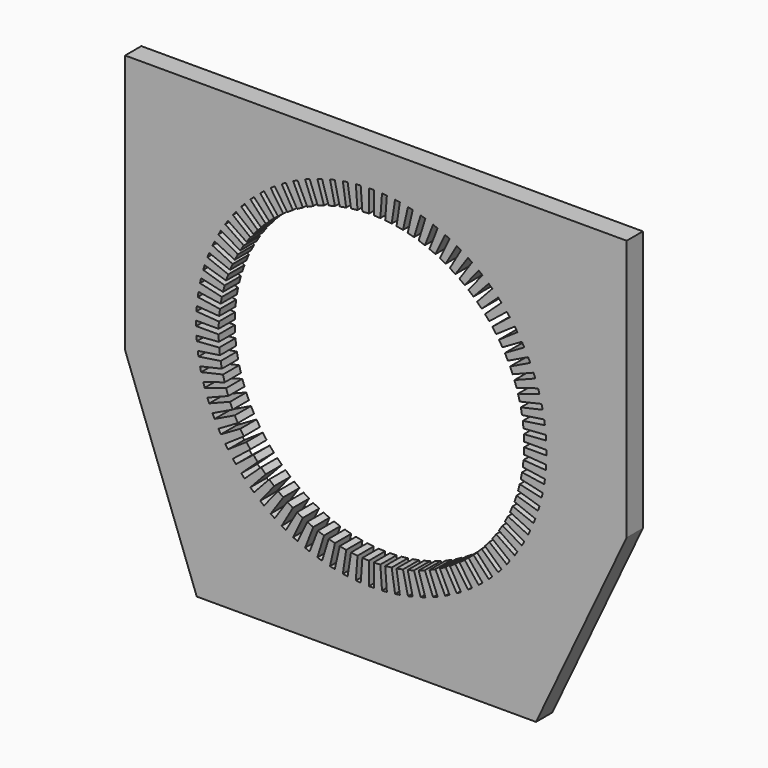
from build123d import *

# Parameters (mm, degrees)
F1_DEPTH = 25


with BuildPart() as f1:
    # F0 (on Front) → F1 (new body)
    with BuildSketch(Plane.XZ):
        with BuildLine():
            ThreePointArc((188.017382, -3), (188.035331, -1.500048), (188.041315, 0))
            ThreePointArc((188.041315, 0), (188.035331, 1.500048), (188.017382, 3))
            ThreePointArc((188.017382, 3), (187.909818, 7.031089), (187.715838, 11.058945))
            ThreePointArc((187.715838, 11.058945), (187.515513, 14.052345), (187.267457, 17.042168))
            ThreePointArc((187.267457, 17.042168), (186.85895, 21.053947), (186.36451, 25.056044))
            ThreePointArc((186.36451, 25.056044), (185.941048, 28.026104), (185.470257, 30.989029))
            ThreePointArc((185.470257, 30.989029), (184.763091, 34.959063), (183.970957, 38.91302))
            ThreePointArc((183.970957, 38.91302), (183.326726, 41.843129), (182.635831, 44.762587))
            ThreePointArc((182.635831, 44.762587), (181.633962, 48.668673), (180.548563, 52.552378))
            ThreePointArc((180.548563, 52.552378), (179.687167, 55.42615), (178.780032, 58.285815))
            ThreePointArc((178.780032, 58.285815), (177.489062, 62.106109), (176.116468, 65.897842))
            ThreePointArc((176.116468, 65.897842), (175.042723, 68.699206), (173.924422, 71.483084))
            ThreePointArc((173.924422, 71.483084), (172.351571, 75.196222), (170.699459, 78.874778))
            ThreePointArc((170.699459, 78.874778), (169.41937, 81.588069), (168.096157, 84.280591))
            ThreePointArc((168.096157, 84.280591), (166.250221, 87.865807), (164.327829, 91.410615))
            ThreePointArc((164.327829, 91.410615), (162.848555, 94.020657), (161.327829, 96.606767))
            ThreePointArc((161.327829, 96.606767), (159.219131, 100.044011), (157.037212, 103.435246))
            ThreePointArc((157.037212, 103.435246), (155.367025, 105.927444), (153.657291, 108.392679))
            ThreePointArc((153.657291, 108.392679), (151.297624, 111.662728), (148.868378, 114.881426))
            ThreePointArc((148.868378, 114.881426), (147.01662, 117.241842), (145.127439, 119.572415))
            ThreePointArc((145.127439, 119.572415), (142.529999, 122.656982), (139.867012, 125.685142))
            ThreePointArc((139.867012, 125.685142), (137.844038, 127.900576), (135.785976, 130.083453))
            ThreePointArc((135.785976, 130.083453), (132.965289, 132.965289), (130.083453, 135.785976))
            ThreePointArc((130.083453, 135.785976), (127.900576, 137.844038), (125.685142, 139.867012))
            ThreePointArc((125.685142, 139.867012), (122.656982, 142.529999), (119.572415, 145.127439))
            ThreePointArc((119.572415, 145.127439), (117.241842, 147.01662), (114.881426, 148.868378))
            ThreePointArc((114.881426, 148.868378), (111.662728, 151.297624), (108.392679, 153.657291))
            ThreePointArc((108.392679, 153.657291), (105.927444, 155.367025), (103.435246, 157.037212))
            ThreePointArc((103.435246, 157.037212), (100.044011, 159.219131), (96.606767, 161.327829))
            ThreePointArc((96.606767, 161.327829), (94.020657, 162.848555), (91.410615, 164.327829))
            ThreePointArc((91.410615, 164.327829), (87.865807, 166.250221), (84.280591, 168.096157))
            ThreePointArc((84.280591, 168.096157), (81.588069, 169.41937), (78.874778, 170.699459))
            ThreePointArc((78.874778, 170.699459), (75.196222, 172.351571), (71.483084, 173.924422))
            ThreePointArc((71.483084, 173.924422), (68.699206, 175.042723), (65.897842, 176.116468))
            ThreePointArc((65.897842, 176.116468), (62.106109, 177.489062), (58.285815, 178.780032))
            ThreePointArc((58.285815, 178.780032), (55.42615, 179.687167), (52.552378, 180.548563))
            ThreePointArc((52.552378, 180.548563), (48.668673, 181.633962), (44.762587, 182.635831))
            ThreePointArc((44.762587, 182.635831), (41.843129, 183.326726), (38.91302, 183.970957))
            ThreePointArc((38.91302, 183.970957), (34.959063, 184.763091), (30.989029, 185.470257))
            ThreePointArc((30.989029, 185.470257), (28.026104, 185.941048), (25.056044, 186.36451))
            ThreePointArc((25.056044, 186.36451), (21.053947, 186.85895), (17.042168, 187.267457))
            ThreePointArc((17.042168, 187.267457), (14.052345, 187.515513), (11.058945, 187.715838))
            ThreePointArc((11.058945, 187.715838), (7.031089, 187.909818), (3, 188.017382))
            ThreePointArc((3, 188.017382), (0, 188.041315), (-3, 188.017382))
            ThreePointArc((-3, 188.017382), (-7.031089, 187.909818), (-11.058945, 187.715838))
            ThreePointArc((-11.058945, 187.715838), (-14.052345, 187.515513), (-17.042168, 187.267457))
            ThreePointArc((-17.042168, 187.267457), (-21.053947, 186.85895), (-25.056044, 186.36451))
            ThreePointArc((-25.056044, 186.36451), (-28.026104, 185.941048), (-30.989029, 185.470257))
            ThreePointArc((-30.989029, 185.470257), (-34.959063, 184.763091), (-38.91302, 183.970957))
            ThreePointArc((-38.91302, 183.970957), (-41.843129, 183.326726), (-44.762587, 182.635831))
            ThreePointArc((-44.762587, 182.635831), (-48.668673, 181.633962), (-52.552378, 180.548563))
            ThreePointArc((-52.552378, 180.548563), (-55.42615, 179.687167), (-58.285815, 178.780032))
            ThreePointArc((-58.285815, 178.780032), (-62.106109, 177.489062), (-65.897842, 176.116468))
            ThreePointArc((-65.897842, 176.116468), (-68.699206, 175.042723), (-71.483084, 173.924422))
            ThreePointArc((-71.483084, 173.924422), (-75.196222, 172.351571), (-78.874778, 170.699459))
            ThreePointArc((-78.874778, 170.699459), (-81.588069, 169.41937), (-84.280591, 168.096157))
            ThreePointArc((-84.280591, 168.096157), (-87.865807, 166.250221), (-91.410615, 164.327829))
            ThreePointArc((-91.410615, 164.327829), (-94.020657, 162.848555), (-96.606767, 161.327829))
            ThreePointArc((-96.606767, 161.327829), (-100.044011, 159.219131), (-103.435246, 157.037212))
            ThreePointArc((-103.435246, 157.037212), (-105.927444, 155.367025), (-108.392679, 153.657291))
            ThreePointArc((-108.392679, 153.657291), (-111.662728, 151.297624), (-114.881426, 148.868378))
            ThreePointArc((-114.881426, 148.868378), (-117.241842, 147.01662), (-119.572415, 145.127439))
            ThreePointArc((-119.572415, 145.127439), (-122.656982, 142.529999), (-125.685142, 139.867012))
            ThreePointArc((-125.685142, 139.867012), (-127.900576, 137.844038), (-130.083453, 135.785976))
            ThreePointArc((-130.083453, 135.785976), (-132.965289, 132.965289), (-135.785976, 130.083453))
            ThreePointArc((-135.785976, 130.083453), (-137.844038, 127.900576), (-139.867012, 125.685142))
            ThreePointArc((-139.867012, 125.685142), (-142.529999, 122.656982), (-145.127439, 119.572415))
            ThreePointArc((-145.127439, 119.572415), (-147.01662, 117.241842), (-148.868378, 114.881426))
            ThreePointArc((-148.868378, 114.881426), (-151.297624, 111.662728), (-153.657291, 108.392679))
            ThreePointArc((-153.657291, 108.392679), (-155.367025, 105.927444), (-157.037212, 103.435246))
            ThreePointArc((-157.037212, 103.435246), (-159.219131, 100.044011), (-161.327829, 96.606767))
            ThreePointArc((-161.327829, 96.606767), (-162.848555, 94.020657), (-164.327829, 91.410615))
            ThreePointArc((-164.327829, 91.410615), (-166.250221, 87.865807), (-168.096157, 84.280591))
            ThreePointArc((-168.096157, 84.280591), (-169.41937, 81.588069), (-170.699459, 78.874778))
            ThreePointArc((-170.699459, 78.874778), (-172.351571, 75.196222), (-173.924422, 71.483084))
            ThreePointArc((-173.924422, 71.483084), (-175.042723, 68.699206), (-176.116468, 65.897842))
            ThreePointArc((-176.116468, 65.897842), (-177.489062, 62.106109), (-178.780032, 58.285815))
            ThreePointArc((-178.780032, 58.285815), (-179.687167, 55.42615), (-180.548563, 52.552378))
            ThreePointArc((-180.548563, 52.552378), (-181.633962, 48.668673), (-182.635831, 44.762587))
            ThreePointArc((-182.635831, 44.762587), (-183.326726, 41.843129), (-183.970957, 38.91302))
            ThreePointArc((-183.970957, 38.91302), (-184.763091, 34.959063), (-185.470257, 30.989029))
            ThreePointArc((-185.470257, 30.989029), (-185.941048, 28.026104), (-186.36451, 25.056044))
            ThreePointArc((-186.36451, 25.056044), (-186.85895, 21.053947), (-187.267457, 17.042168))
            ThreePointArc((-187.267457, 17.042168), (-187.515513, 14.052345), (-187.715838, 11.058945))
            ThreePointArc((-187.715838, 11.058945), (-187.909818, 7.031089), (-188.017382, 3))
            ThreePointArc((-188.017382, 3), (-188.041315, 0), (-188.017382, -3))
            ThreePointArc((-188.017382, -3), (-187.909818, -7.031089), (-187.715838, -11.058945))
            ThreePointArc((-187.715838, -11.058945), (-187.515513, -14.052345), (-187.267457, -17.042168))
            ThreePointArc((-187.267457, -17.042168), (-186.85895, -21.053947), (-186.36451, -25.056044))
            ThreePointArc((-186.36451, -25.056044), (-185.941048, -28.026104), (-185.470257, -30.989029))
            ThreePointArc((-185.470257, -30.989029), (-184.763091, -34.959063), (-183.970957, -38.91302))
            ThreePointArc((-183.970957, -38.91302), (-183.326726, -41.843129), (-182.635831, -44.762587))
            ThreePointArc((-182.635831, -44.762587), (-181.633962, -48.668673), (-180.548563, -52.552378))
            ThreePointArc((-180.548563, -52.552378), (-179.687167, -55.42615), (-178.780032, -58.285815))
            ThreePointArc((-178.780032, -58.285815), (-177.489062, -62.106109), (-176.116468, -65.897842))
            ThreePointArc((-176.116468, -65.897842), (-175.042723, -68.699206), (-173.924422, -71.483084))
            ThreePointArc((-173.924422, -71.483084), (-172.351571, -75.196222), (-170.699459, -78.874778))
            ThreePointArc((-170.699459, -78.874778), (-169.41937, -81.588069), (-168.096157, -84.280591))
            ThreePointArc((-168.096157, -84.280591), (-166.250221, -87.865807), (-164.327829, -91.410615))
            ThreePointArc((-164.327829, -91.410615), (-162.848555, -94.020657), (-161.327829, -96.606767))
            ThreePointArc((-161.327829, -96.606767), (-159.219131, -100.044011), (-157.037212, -103.435246))
            ThreePointArc((-157.037212, -103.435246), (-155.367025, -105.927444), (-153.657291, -108.392679))
            ThreePointArc((-153.657291, -108.392679), (-151.297624, -111.662728), (-148.868378, -114.881426))
            ThreePointArc((-148.868378, -114.881426), (-147.01662, -117.241842), (-145.127439, -119.572415))
            ThreePointArc((-145.127439, -119.572415), (-142.529999, -122.656982), (-139.867012, -125.685142))
            ThreePointArc((-139.867012, -125.685142), (-137.844038, -127.900576), (-135.785976, -130.083453))
            ThreePointArc((-135.785976, -130.083453), (-132.965289, -132.965289), (-130.083453, -135.785976))
            ThreePointArc((-130.083453, -135.785976), (-127.900576, -137.844038), (-125.685142, -139.867012))
            ThreePointArc((-125.685142, -139.867012), (-122.656982, -142.529999), (-119.572415, -145.127439))
            ThreePointArc((-119.572415, -145.127439), (-117.241842, -147.01662), (-114.881426, -148.868378))
            ThreePointArc((-114.881426, -148.868378), (-111.662728, -151.297624), (-108.392679, -153.657291))
            ThreePointArc((-108.392679, -153.657291), (-105.927444, -155.367025), (-103.435246, -157.037212))
            ThreePointArc((-103.435246, -157.037212), (-100.044011, -159.219131), (-96.606767, -161.327829))
            ThreePointArc((-96.606767, -161.327829), (-94.020657, -162.848555), (-91.410615, -164.327829))
            ThreePointArc((-91.410615, -164.327829), (-87.865807, -166.250221), (-84.280591, -168.096157))
            ThreePointArc((-84.280591, -168.096157), (-81.588069, -169.41937), (-78.874778, -170.699459))
            ThreePointArc((-78.874778, -170.699459), (-75.196222, -172.351571), (-71.483084, -173.924422))
            ThreePointArc((-71.483084, -173.924422), (-68.699206, -175.042723), (-65.897842, -176.116468))
            ThreePointArc((-65.897842, -176.116468), (-62.106109, -177.489062), (-58.285815, -178.780032))
            ThreePointArc((-58.285815, -178.780032), (-55.42615, -179.687167), (-52.552378, -180.548563))
            ThreePointArc((-52.552378, -180.548563), (-48.668673, -181.633962), (-44.762587, -182.635831))
            ThreePointArc((-44.762587, -182.635831), (-41.843129, -183.326726), (-38.91302, -183.970957))
            ThreePointArc((-38.91302, -183.970957), (-34.959063, -184.763091), (-30.989029, -185.470257))
            ThreePointArc((-30.989029, -185.470257), (-28.026104, -185.941048), (-25.056044, -186.36451))
            ThreePointArc((-25.056044, -186.36451), (-21.053947, -186.85895), (-17.042168, -187.267457))
            ThreePointArc((-17.042168, -187.267457), (-14.052345, -187.515513), (-11.058945, -187.715838))
            ThreePointArc((-11.058945, -187.715838), (-7.031089, -187.909818), (-3, -188.017382))
            ThreePointArc((-3, -188.017382), (0, -188.041315), (3, -188.017382))
            ThreePointArc((3, -188.017382), (7.031089, -187.909818), (11.058945, -187.715838))
            ThreePointArc((11.058945, -187.715838), (14.052345, -187.515513), (17.042168, -187.267457))
            ThreePointArc((17.042168, -187.267457), (21.053947, -186.85895), (25.056044, -186.36451))
            ThreePointArc((25.056044, -186.36451), (28.026104, -185.941048), (30.989029, -185.470257))
            ThreePointArc((30.989029, -185.470257), (34.959063, -184.763091), (38.91302, -183.970957))
            ThreePointArc((38.91302, -183.970957), (41.843129, -183.326726), (44.762587, -182.635831))
            ThreePointArc((44.762587, -182.635831), (48.668673, -181.633962), (52.552378, -180.548563))
            ThreePointArc((52.552378, -180.548563), (55.42615, -179.687167), (58.285815, -178.780032))
            ThreePointArc((58.285815, -178.780032), (62.106109, -177.489062), (65.897842, -176.116468))
            ThreePointArc((65.897842, -176.116468), (68.699206, -175.042723), (71.483084, -173.924422))
            ThreePointArc((71.483084, -173.924422), (75.196222, -172.351571), (78.874778, -170.699459))
            ThreePointArc((78.874778, -170.699459), (81.588069, -169.41937), (84.280591, -168.096157))
            ThreePointArc((84.280591, -168.096157), (87.865807, -166.250221), (91.410615, -164.327829))
            ThreePointArc((91.410615, -164.327829), (94.020657, -162.848555), (96.606767, -161.327829))
            ThreePointArc((96.606767, -161.327829), (100.044011, -159.219131), (103.435246, -157.037212))
            ThreePointArc((103.435246, -157.037212), (105.927444, -155.367025), (108.392679, -153.657291))
            ThreePointArc((108.392679, -153.657291), (111.662728, -151.297624), (114.881426, -148.868378))
            ThreePointArc((114.881426, -148.868378), (117.241842, -147.01662), (119.572415, -145.127439))
            ThreePointArc((119.572415, -145.127439), (122.656982, -142.529999), (125.685142, -139.867012))
            ThreePointArc((125.685142, -139.867012), (127.900576, -137.844038), (130.083453, -135.785976))
            ThreePointArc((130.083453, -135.785976), (132.965289, -132.965289), (135.785976, -130.083453))
            ThreePointArc((135.785976, -130.083453), (137.844038, -127.900576), (139.867012, -125.685142))
            ThreePointArc((139.867012, -125.685142), (142.529999, -122.656982), (145.127439, -119.572415))
            ThreePointArc((145.127439, -119.572415), (147.01662, -117.241842), (148.868378, -114.881426))
            ThreePointArc((148.868378, -114.881426), (151.297624, -111.662728), (153.657291, -108.392679))
            ThreePointArc((153.657291, -108.392679), (155.367025, -105.927444), (157.037212, -103.435246))
            ThreePointArc((157.037212, -103.435246), (159.219131, -100.044011), (161.327829, -96.606767))
            ThreePointArc((161.327829, -96.606767), (162.848555, -94.020657), (164.327829, -91.410615))
            ThreePointArc((164.327829, -91.410615), (166.250221, -87.865807), (168.096157, -84.280591))
            ThreePointArc((168.096157, -84.280591), (169.41937, -81.588069), (170.699459, -78.874778))
            ThreePointArc((170.699459, -78.874778), (172.351571, -75.196222), (173.924422, -71.483084))
            ThreePointArc((173.924422, -71.483084), (175.042723, -68.699206), (176.116468, -65.897842))
            ThreePointArc((176.116468, -65.897842), (177.489062, -62.106109), (178.780032, -58.285815))
            ThreePointArc((178.780032, -58.285815), (179.687167, -55.42615), (180.548563, -52.552378))
            ThreePointArc((180.548563, -52.552378), (181.633962, -48.668673), (182.635831, -44.762587))
            ThreePointArc((182.635831, -44.762587), (183.326726, -41.843129), (183.970957, -38.91302))
            ThreePointArc((183.970957, -38.91302), (184.763091, -34.959063), (185.470257, -30.989029))
            ThreePointArc((185.470257, -30.989029), (185.941048, -28.026104), (186.36451, -25.056044))
            ThreePointArc((186.36451, -25.056044), (186.85895, -21.053947), (187.267457, -17.042168))
            ThreePointArc((187.267457, -17.042168), (187.515513, -14.052345), (187.715838, -11.058945))
            ThreePointArc((187.715838, -11.058945), (187.909818, -7.031089), (188.017382, -3))
        make_face()
        Polygon((-214.928001, -295.90863), (0, -295.90863), (202.740714, -295.90863), (314.291954, -59.835047), (314.291954, 261.847645), (-303.131312, 261.847645), (-303.131312, -57.594872), align=None)
        with BuildLine():
            ThreePointArc((187.715838, 11.058945), (187.909818, 7.031089), (188.017382, 3))
            Line((188.017382, 3), (215.659824, 3))
            Line((215.659824, 3), (215.659824, -3))
            Line((215.659824, -3), (188.017382, -3))
            ThreePointArc((188.017382, -3), (187.909818, -7.031089), (187.715838, -11.058945))
            Line((187.715838, -11.058945), (215.280986, -13.124667))
            Line((215.280986, -13.124667), (214.832605, -19.10789))
            Line((214.832605, -19.10789), (187.267457, -17.042168))
            ThreePointArc((187.267457, -17.042168), (186.85895, -21.053947), (186.36451, -25.056044))
            Line((186.36451, -25.056044), (213.698209, -29.175936))
            Line((213.698209, -29.175936), (212.803955, -35.108921))
            Line((212.803955, -35.108921), (185.470257, -30.989029))
            ThreePointArc((185.470257, -30.989029), (184.763091, -34.959063), (183.970957, -38.91302))
            Line((183.970957, -38.91302), (210.920345, -45.064042))
            Line((210.920345, -45.064042), (209.585219, -50.913609))
            Line((209.585219, -50.913609), (182.635831, -44.762587))
            ThreePointArc((182.635831, -44.762587), (181.633962, -48.668673), (180.548563, -52.552378))
            Line((180.548563, -52.552378), (206.962929, -60.700131))
            Line((206.962929, -60.700131), (205.194398, -66.433568))
            Line((205.194398, -66.433568), (178.780032, -58.285815))
            ThreePointArc((178.780032, -58.285815), (177.489062, -62.106109), (176.116468, -65.897842))
            Line((176.116468, -65.897842), (201.848092, -75.99676))
            Line((201.848092, -75.99676), (199.656046, -81.582002))
            Line((199.656046, -81.582002), (173.924422, -71.483084))
            ThreePointArc((173.924422, -71.483084), (172.351571, -75.196222), (170.699459, -78.874778))
            Line((170.699459, -78.874778), (195.604439, -90.868384))
            Line((195.604439, -90.868384), (193.001137, -96.274198))
            Line((193.001137, -96.274198), (168.096157, -84.280591))
            ThreePointArc((168.096157, -84.280591), (166.250221, -87.865807), (164.327829, -91.410615))
            Line((164.327829, -91.410615), (188.266886, -105.231836))
            Line((188.266886, -105.231836), (185.266886, -110.427988))
            Line((185.266886, -110.427988), (161.327829, -96.606767))
            ThreePointArc((161.327829, -96.606767), (159.219131, -100.044011), (157.037212, -103.435246))
            Line((157.037212, -103.435246), (179.876469, -119.006788))
            Line((179.876469, -119.006788), (176.496549, -123.964221))
            Line((176.496549, -123.964221), (153.657291, -108.392679))
            ThreePointArc((153.657291, -108.392679), (151.297624, -111.662728), (148.868378, -114.881426))
            Line((148.868378, -114.881426), (170.48011, -132.116207))
            Line((170.48011, -132.116207), (166.739171, -136.807196))
            Line((166.739171, -136.807196), (145.127439, -119.572415))
            ThreePointArc((145.127439, -119.572415), (142.529999, -122.656982), (139.867012, -125.685142))
            Line((139.867012, -125.685142), (160.130356, -144.486777))
            Line((160.130356, -144.486777), (156.04932, -148.885089))
            Line((156.04932, -148.885089), (135.785976, -130.083453))
            ThreePointArc((135.785976, -130.083453), (132.965289, -132.965289), (130.083453, -135.785976))
            Line((130.083453, -135.785976), (148.885089, -156.04932))
            Line((148.885089, -156.04932), (144.486777, -160.130356))
            Line((144.486777, -160.130356), (125.685142, -139.867012))
            ThreePointArc((125.685142, -139.867012), (122.656982, -142.529999), (119.572415, -145.127439))
            Line((119.572415, -145.127439), (136.807196, -166.739171))
            Line((136.807196, -166.739171), (132.116207, -170.48011))
            Line((132.116207, -170.48011), (114.881426, -148.868378))
            ThreePointArc((114.881426, -148.868378), (111.662728, -151.297624), (108.392679, -153.657291))
            Line((108.392679, -153.657291), (123.964221, -176.496549))
            Line((123.964221, -176.496549), (119.006788, -179.876469))
            Line((119.006788, -179.876469), (103.435246, -157.037212))
            ThreePointArc((103.435246, -157.037212), (100.044011, -159.219131), (96.606767, -161.327829))
            Line((96.606767, -161.327829), (110.427988, -185.266886))
            Line((110.427988, -185.266886), (105.231836, -188.266886))
            Line((105.231836, -188.266886), (91.410615, -164.327829))
            ThreePointArc((91.410615, -164.327829), (87.865807, -166.250221), (84.280591, -168.096157))
            Line((84.280591, -168.096157), (96.274198, -193.001137))
            Line((96.274198, -193.001137), (90.868384, -195.604439))
            Line((90.868384, -195.604439), (78.874778, -170.699459))
            ThreePointArc((78.874778, -170.699459), (75.196222, -172.351571), (71.483084, -173.924422))
            Line((71.483084, -173.924422), (81.582002, -199.656046))
            Line((81.582002, -199.656046), (75.99676, -201.848092))
            Line((75.99676, -201.848092), (65.897842, -176.116468))
            ThreePointArc((65.897842, -176.116468), (62.106109, -177.489062), (58.285815, -178.780032))
            Line((58.285815, -178.780032), (66.433568, -205.194398))
            Line((66.433568, -205.194398), (60.700131, -206.962929))
            Line((60.700131, -206.962929), (52.552378, -180.548563))
            ThreePointArc((52.552378, -180.548563), (48.668673, -181.633962), (44.762587, -182.635831))
            Line((44.762587, -182.635831), (50.913609, -209.585219))
            Line((50.913609, -209.585219), (45.064042, -210.920345))
            Line((45.064042, -210.920345), (38.91302, -183.970957))
            ThreePointArc((38.91302, -183.970957), (34.959063, -184.763091), (30.989029, -185.470257))
            Line((30.989029, -185.470257), (35.108921, -212.803955))
            Line((35.108921, -212.803955), (29.175936, -213.698209))
            Line((29.175936, -213.698209), (25.056044, -186.36451))
            ThreePointArc((25.056044, -186.36451), (21.053947, -186.85895), (17.042168, -187.267457))
            Line((17.042168, -187.267457), (19.10789, -214.832605))
            Line((19.10789, -214.832605), (13.124667, -215.280986))
            Line((13.124667, -215.280986), (11.058945, -187.715838))
            ThreePointArc((11.058945, -187.715838), (7.031089, -187.909818), (3, -188.017382))
            Line((3, -188.017382), (3, -215.659824))
            Line((3, -215.659824), (-3, -215.659824))
            Line((-3, -215.659824), (-3, -188.017382))
            ThreePointArc((-3, -188.017382), (-7.031089, -187.909818), (-11.058945, -187.715838))
            Line((-11.058945, -187.715838), (-13.124667, -215.280986))
            Line((-13.124667, -215.280986), (-19.10789, -214.832605))
            Line((-19.10789, -214.832605), (-17.042168, -187.267457))
            ThreePointArc((-17.042168, -187.267457), (-21.053947, -186.85895), (-25.056044, -186.36451))
            Line((-25.056044, -186.36451), (-29.175936, -213.698209))
            Line((-29.175936, -213.698209), (-35.108921, -212.803955))
            Line((-35.108921, -212.803955), (-30.989029, -185.470257))
            ThreePointArc((-30.989029, -185.470257), (-34.959063, -184.763091), (-38.91302, -183.970957))
            Line((-38.91302, -183.970957), (-45.064042, -210.920345))
            Line((-45.064042, -210.920345), (-50.913609, -209.585219))
            Line((-50.913609, -209.585219), (-44.762587, -182.635831))
            ThreePointArc((-44.762587, -182.635831), (-48.668673, -181.633962), (-52.552378, -180.548563))
            Line((-52.552378, -180.548563), (-60.700131, -206.962929))
            Line((-60.700131, -206.962929), (-66.433568, -205.194398))
            Line((-66.433568, -205.194398), (-58.285815, -178.780032))
            ThreePointArc((-58.285815, -178.780032), (-62.106109, -177.489062), (-65.897842, -176.116468))
            Line((-65.897842, -176.116468), (-75.99676, -201.848092))
            Line((-75.99676, -201.848092), (-81.582002, -199.656046))
            Line((-81.582002, -199.656046), (-71.483084, -173.924422))
            ThreePointArc((-71.483084, -173.924422), (-75.196222, -172.351571), (-78.874778, -170.699459))
            Line((-78.874778, -170.699459), (-90.868384, -195.604439))
            Line((-90.868384, -195.604439), (-96.274198, -193.001137))
            Line((-96.274198, -193.001137), (-84.280591, -168.096157))
            ThreePointArc((-84.280591, -168.096157), (-87.865807, -166.250221), (-91.410615, -164.327829))
            Line((-91.410615, -164.327829), (-105.231836, -188.266886))
            Line((-105.231836, -188.266886), (-110.427988, -185.266886))
            Line((-110.427988, -185.266886), (-96.606767, -161.327829))
            ThreePointArc((-96.606767, -161.327829), (-100.044011, -159.219131), (-103.435246, -157.037212))
            Line((-103.435246, -157.037212), (-119.006788, -179.876469))
            Line((-119.006788, -179.876469), (-123.964221, -176.496549))
            Line((-123.964221, -176.496549), (-108.392679, -153.657291))
            ThreePointArc((-108.392679, -153.657291), (-111.662728, -151.297624), (-114.881426, -148.868378))
            Line((-114.881426, -148.868378), (-132.116207, -170.48011))
            Line((-132.116207, -170.48011), (-136.807196, -166.739171))
            Line((-136.807196, -166.739171), (-119.572415, -145.127439))
            ThreePointArc((-119.572415, -145.127439), (-122.656982, -142.529999), (-125.685142, -139.867012))
            Line((-125.685142, -139.867012), (-144.486777, -160.130356))
            Line((-144.486777, -160.130356), (-148.885089, -156.04932))
            Line((-148.885089, -156.04932), (-130.083453, -135.785976))
            ThreePointArc((-130.083453, -135.785976), (-132.965289, -132.965289), (-135.785976, -130.083453))
            Line((-135.785976, -130.083453), (-156.04932, -148.885089))
            Line((-156.04932, -148.885089), (-160.130356, -144.486777))
            Line((-160.130356, -144.486777), (-139.867012, -125.685142))
            ThreePointArc((-139.867012, -125.685142), (-142.529999, -122.656982), (-145.127439, -119.572415))
            Line((-145.127439, -119.572415), (-166.739171, -136.807196))
            Line((-166.739171, -136.807196), (-170.48011, -132.116207))
            Line((-170.48011, -132.116207), (-148.868378, -114.881426))
            ThreePointArc((-148.868378, -114.881426), (-151.297624, -111.662728), (-153.657291, -108.392679))
            Line((-153.657291, -108.392679), (-176.496549, -123.964221))
            Line((-176.496549, -123.964221), (-179.876469, -119.006788))
            Line((-179.876469, -119.006788), (-157.037212, -103.435246))
            ThreePointArc((-157.037212, -103.435246), (-159.219131, -100.044011), (-161.327829, -96.606767))
            Line((-161.327829, -96.606767), (-185.266886, -110.427988))
            Line((-185.266886, -110.427988), (-188.266886, -105.231836))
            Line((-188.266886, -105.231836), (-164.327829, -91.410615))
            ThreePointArc((-164.327829, -91.410615), (-166.250221, -87.865807), (-168.096157, -84.280591))
            Line((-168.096157, -84.280591), (-193.001137, -96.274198))
            Line((-193.001137, -96.274198), (-195.604439, -90.868384))
            Line((-195.604439, -90.868384), (-170.699459, -78.874778))
            ThreePointArc((-170.699459, -78.874778), (-172.351571, -75.196222), (-173.924422, -71.483084))
            Line((-173.924422, -71.483084), (-199.656046, -81.582002))
            Line((-199.656046, -81.582002), (-201.848092, -75.99676))
            Line((-201.848092, -75.99676), (-176.116468, -65.897842))
            ThreePointArc((-176.116468, -65.897842), (-177.489062, -62.106109), (-178.780032, -58.285815))
            Line((-178.780032, -58.285815), (-205.194398, -66.433568))
            Line((-205.194398, -66.433568), (-206.962929, -60.700131))
            Line((-206.962929, -60.700131), (-180.548563, -52.552378))
            ThreePointArc((-180.548563, -52.552378), (-181.633962, -48.668673), (-182.635831, -44.762587))
            Line((-182.635831, -44.762587), (-209.585219, -50.913609))
            Line((-209.585219, -50.913609), (-210.920345, -45.064042))
            Line((-210.920345, -45.064042), (-183.970957, -38.91302))
            ThreePointArc((-183.970957, -38.91302), (-184.763091, -34.959063), (-185.470257, -30.989029))
            Line((-185.470257, -30.989029), (-212.803955, -35.108921))
            Line((-212.803955, -35.108921), (-213.698209, -29.175936))
            Line((-213.698209, -29.175936), (-186.36451, -25.056044))
            ThreePointArc((-186.36451, -25.056044), (-186.85895, -21.053947), (-187.267457, -17.042168))
            Line((-187.267457, -17.042168), (-214.832605, -19.10789))
            Line((-214.832605, -19.10789), (-215.280986, -13.124667))
            Line((-215.280986, -13.124667), (-187.715838, -11.058945))
            ThreePointArc((-187.715838, -11.058945), (-187.909818, -7.031089), (-188.017382, -3))
            Line((-188.017382, -3), (-215.659824, -3))
            Line((-215.659824, -3), (-215.659824, 3))
            Line((-215.659824, 3), (-188.017382, 3))
            ThreePointArc((-188.017382, 3), (-187.909818, 7.031089), (-187.715838, 11.058945))
            Line((-187.715838, 11.058945), (-215.280986, 13.124667))
            Line((-215.280986, 13.124667), (-214.832605, 19.10789))
            Line((-214.832605, 19.10789), (-187.267457, 17.042168))
            ThreePointArc((-187.267457, 17.042168), (-186.85895, 21.053947), (-186.36451, 25.056044))
            Line((-186.36451, 25.056044), (-213.698209, 29.175936))
            Line((-213.698209, 29.175936), (-212.803955, 35.108921))
            Line((-212.803955, 35.108921), (-185.470257, 30.989029))
            ThreePointArc((-185.470257, 30.989029), (-184.763091, 34.959063), (-183.970957, 38.91302))
            Line((-183.970957, 38.91302), (-210.920345, 45.064042))
            Line((-210.920345, 45.064042), (-209.585219, 50.913609))
            Line((-209.585219, 50.913609), (-182.635831, 44.762587))
            ThreePointArc((-182.635831, 44.762587), (-181.633962, 48.668673), (-180.548563, 52.552378))
            Line((-180.548563, 52.552378), (-206.962929, 60.700131))
            Line((-206.962929, 60.700131), (-205.194398, 66.433568))
            Line((-205.194398, 66.433568), (-178.780032, 58.285815))
            ThreePointArc((-178.780032, 58.285815), (-177.489062, 62.106109), (-176.116468, 65.897842))
            Line((-176.116468, 65.897842), (-201.848092, 75.99676))
            Line((-201.848092, 75.99676), (-199.656046, 81.582002))
            Line((-199.656046, 81.582002), (-173.924422, 71.483084))
            ThreePointArc((-173.924422, 71.483084), (-172.351571, 75.196222), (-170.699459, 78.874778))
            Line((-170.699459, 78.874778), (-195.604439, 90.868384))
            Line((-195.604439, 90.868384), (-193.001137, 96.274198))
            Line((-193.001137, 96.274198), (-168.096157, 84.280591))
            ThreePointArc((-168.096157, 84.280591), (-166.250221, 87.865807), (-164.327829, 91.410615))
            Line((-164.327829, 91.410615), (-188.266886, 105.231836))
            Line((-188.266886, 105.231836), (-185.266886, 110.427988))
            Line((-185.266886, 110.427988), (-161.327829, 96.606767))
            ThreePointArc((-161.327829, 96.606767), (-159.219131, 100.044011), (-157.037212, 103.435246))
            Line((-157.037212, 103.435246), (-179.876469, 119.006788))
            Line((-179.876469, 119.006788), (-176.496549, 123.964221))
            Line((-176.496549, 123.964221), (-153.657291, 108.392679))
            ThreePointArc((-153.657291, 108.392679), (-151.297624, 111.662728), (-148.868378, 114.881426))
            Line((-148.868378, 114.881426), (-170.48011, 132.116207))
            Line((-170.48011, 132.116207), (-166.739171, 136.807196))
            Line((-166.739171, 136.807196), (-145.127439, 119.572415))
            ThreePointArc((-145.127439, 119.572415), (-142.529999, 122.656982), (-139.867012, 125.685142))
            Line((-139.867012, 125.685142), (-160.130356, 144.486777))
            Line((-160.130356, 144.486777), (-156.04932, 148.885089))
            Line((-156.04932, 148.885089), (-135.785976, 130.083453))
            ThreePointArc((-135.785976, 130.083453), (-132.965289, 132.965289), (-130.083453, 135.785976))
            Line((-130.083453, 135.785976), (-148.885089, 156.04932))
            Line((-148.885089, 156.04932), (-144.486777, 160.130356))
            Line((-144.486777, 160.130356), (-125.685142, 139.867012))
            ThreePointArc((-125.685142, 139.867012), (-122.656982, 142.529999), (-119.572415, 145.127439))
            Line((-119.572415, 145.127439), (-136.807196, 166.739171))
            Line((-136.807196, 166.739171), (-132.116207, 170.48011))
            Line((-132.116207, 170.48011), (-114.881426, 148.868378))
            ThreePointArc((-114.881426, 148.868378), (-111.662728, 151.297624), (-108.392679, 153.657291))
            Line((-108.392679, 153.657291), (-123.964221, 176.496549))
            Line((-123.964221, 176.496549), (-119.006788, 179.876469))
            Line((-119.006788, 179.876469), (-103.435246, 157.037212))
            ThreePointArc((-103.435246, 157.037212), (-100.044011, 159.219131), (-96.606767, 161.327829))
            Line((-96.606767, 161.327829), (-110.427988, 185.266886))
            Line((-110.427988, 185.266886), (-105.231836, 188.266886))
            Line((-105.231836, 188.266886), (-91.410615, 164.327829))
            ThreePointArc((-91.410615, 164.327829), (-87.865807, 166.250221), (-84.280591, 168.096157))
            Line((-84.280591, 168.096157), (-96.274198, 193.001137))
            Line((-96.274198, 193.001137), (-90.868384, 195.604439))
            Line((-90.868384, 195.604439), (-78.874778, 170.699459))
            ThreePointArc((-78.874778, 170.699459), (-75.196222, 172.351571), (-71.483084, 173.924422))
            Line((-71.483084, 173.924422), (-81.582002, 199.656046))
            Line((-81.582002, 199.656046), (-75.99676, 201.848092))
            Line((-75.99676, 201.848092), (-65.897842, 176.116468))
            ThreePointArc((-65.897842, 176.116468), (-62.106109, 177.489062), (-58.285815, 178.780032))
            Line((-58.285815, 178.780032), (-66.433568, 205.194398))
            Line((-66.433568, 205.194398), (-60.700131, 206.962929))
            Line((-60.700131, 206.962929), (-52.552378, 180.548563))
            ThreePointArc((-52.552378, 180.548563), (-48.668673, 181.633962), (-44.762587, 182.635831))
            Line((-44.762587, 182.635831), (-50.913609, 209.585219))
            Line((-50.913609, 209.585219), (-45.064042, 210.920345))
            Line((-45.064042, 210.920345), (-38.91302, 183.970957))
            ThreePointArc((-38.91302, 183.970957), (-34.959063, 184.763091), (-30.989029, 185.470257))
            Line((-30.989029, 185.470257), (-35.108921, 212.803955))
            Line((-35.108921, 212.803955), (-29.175936, 213.698209))
            Line((-29.175936, 213.698209), (-25.056044, 186.36451))
            ThreePointArc((-25.056044, 186.36451), (-21.053947, 186.85895), (-17.042168, 187.267457))
            Line((-17.042168, 187.267457), (-19.10789, 214.832605))
            Line((-19.10789, 214.832605), (-13.124667, 215.280986))
            Line((-13.124667, 215.280986), (-11.058945, 187.715838))
            ThreePointArc((-11.058945, 187.715838), (-7.031089, 187.909818), (-3, 188.017382))
            Line((-3, 188.017382), (-3, 215.659824))
            Line((-3, 215.659824), (3, 215.659824))
            Line((3, 215.659824), (3, 188.017382))
            ThreePointArc((3, 188.017382), (7.031089, 187.909818), (11.058945, 187.715838))
            Line((11.058945, 187.715838), (13.124667, 215.280986))
            Line((13.124667, 215.280986), (19.10789, 214.832605))
            Line((19.10789, 214.832605), (17.042168, 187.267457))
            ThreePointArc((17.042168, 187.267457), (21.053947, 186.85895), (25.056044, 186.36451))
            Line((25.056044, 186.36451), (29.175936, 213.698209))
            Line((29.175936, 213.698209), (35.108921, 212.803955))
            Line((35.108921, 212.803955), (30.989029, 185.470257))
            ThreePointArc((30.989029, 185.470257), (34.959063, 184.763091), (38.91302, 183.970957))
            Line((38.91302, 183.970957), (45.064042, 210.920345))
            Line((45.064042, 210.920345), (50.913609, 209.585219))
            Line((50.913609, 209.585219), (44.762587, 182.635831))
            ThreePointArc((44.762587, 182.635831), (48.668673, 181.633962), (52.552378, 180.548563))
            Line((52.552378, 180.548563), (60.700131, 206.962929))
            Line((60.700131, 206.962929), (66.433568, 205.194398))
            Line((66.433568, 205.194398), (58.285815, 178.780032))
            ThreePointArc((58.285815, 178.780032), (62.106109, 177.489062), (65.897842, 176.116468))
            Line((65.897842, 176.116468), (75.99676, 201.848092))
            Line((75.99676, 201.848092), (81.582002, 199.656046))
            Line((81.582002, 199.656046), (71.483084, 173.924422))
            ThreePointArc((71.483084, 173.924422), (75.196222, 172.351571), (78.874778, 170.699459))
            Line((78.874778, 170.699459), (90.868384, 195.604439))
            Line((90.868384, 195.604439), (96.274198, 193.001137))
            Line((96.274198, 193.001137), (84.280591, 168.096157))
            ThreePointArc((84.280591, 168.096157), (87.865807, 166.250221), (91.410615, 164.327829))
            Line((91.410615, 164.327829), (105.231836, 188.266886))
            Line((105.231836, 188.266886), (110.427988, 185.266886))
            Line((110.427988, 185.266886), (96.606767, 161.327829))
            ThreePointArc((96.606767, 161.327829), (100.044011, 159.219131), (103.435246, 157.037212))
            Line((103.435246, 157.037212), (119.006788, 179.876469))
            Line((119.006788, 179.876469), (123.964221, 176.496549))
            Line((123.964221, 176.496549), (108.392679, 153.657291))
            ThreePointArc((108.392679, 153.657291), (111.662728, 151.297624), (114.881426, 148.868378))
            Line((114.881426, 148.868378), (132.116207, 170.48011))
            Line((132.116207, 170.48011), (136.807196, 166.739171))
            Line((136.807196, 166.739171), (119.572415, 145.127439))
            ThreePointArc((119.572415, 145.127439), (122.656982, 142.529999), (125.685142, 139.867012))
            Line((125.685142, 139.867012), (144.486777, 160.130356))
            Line((144.486777, 160.130356), (148.885089, 156.04932))
            Line((148.885089, 156.04932), (130.083453, 135.785976))
            ThreePointArc((130.083453, 135.785976), (132.965289, 132.965289), (135.785976, 130.083453))
            Line((135.785976, 130.083453), (156.04932, 148.885089))
            Line((156.04932, 148.885089), (160.130356, 144.486777))
            Line((160.130356, 144.486777), (139.867012, 125.685142))
            ThreePointArc((139.867012, 125.685142), (142.529999, 122.656982), (145.127439, 119.572415))
            Line((145.127439, 119.572415), (166.739171, 136.807196))
            Line((166.739171, 136.807196), (170.48011, 132.116207))
            Line((170.48011, 132.116207), (148.868378, 114.881426))
            ThreePointArc((148.868378, 114.881426), (151.297624, 111.662728), (153.657291, 108.392679))
            Line((153.657291, 108.392679), (176.496549, 123.964221))
            Line((176.496549, 123.964221), (179.876469, 119.006788))
            Line((179.876469, 119.006788), (157.037212, 103.435246))
            ThreePointArc((157.037212, 103.435246), (159.219131, 100.044011), (161.327829, 96.606767))
            Line((161.327829, 96.606767), (185.266886, 110.427988))
            Line((185.266886, 110.427988), (188.266886, 105.231836))
            Line((188.266886, 105.231836), (164.327829, 91.410615))
            ThreePointArc((164.327829, 91.410615), (166.250221, 87.865807), (168.096157, 84.280591))
            Line((168.096157, 84.280591), (193.001137, 96.274198))
            Line((193.001137, 96.274198), (195.604439, 90.868384))
            Line((195.604439, 90.868384), (170.699459, 78.874778))
            ThreePointArc((170.699459, 78.874778), (172.351571, 75.196222), (173.924422, 71.483084))
            Line((173.924422, 71.483084), (199.656046, 81.582002))
            Line((199.656046, 81.582002), (201.848092, 75.99676))
            Line((201.848092, 75.99676), (176.116468, 65.897842))
            ThreePointArc((176.116468, 65.897842), (177.489062, 62.106109), (178.780032, 58.285815))
            Line((178.780032, 58.285815), (205.194398, 66.433568))
            Line((205.194398, 66.433568), (206.962929, 60.700131))
            Line((206.962929, 60.700131), (180.548563, 52.552378))
            ThreePointArc((180.548563, 52.552378), (181.633962, 48.668673), (182.635831, 44.762587))
            Line((182.635831, 44.762587), (209.585219, 50.913609))
            Line((209.585219, 50.913609), (210.920345, 45.064042))
            Line((210.920345, 45.064042), (183.970957, 38.91302))
            ThreePointArc((183.970957, 38.91302), (184.763091, 34.959063), (185.470257, 30.989029))
            Line((185.470257, 30.989029), (212.803955, 35.108921))
            Line((212.803955, 35.108921), (213.698209, 29.175936))
            Line((213.698209, 29.175936), (186.36451, 25.056044))
            ThreePointArc((186.36451, 25.056044), (186.85895, 21.053947), (187.267457, 17.042168))
            Line((187.267457, 17.042168), (214.832605, 19.10789))
            Line((214.832605, 19.10789), (215.280986, 13.124667))
            Line((215.280986, 13.124667), (187.715838, 11.058945))
        make_face(mode=Mode.SUBTRACT)
    extrude(amount=F1_DEPTH)


solid = f1.part
